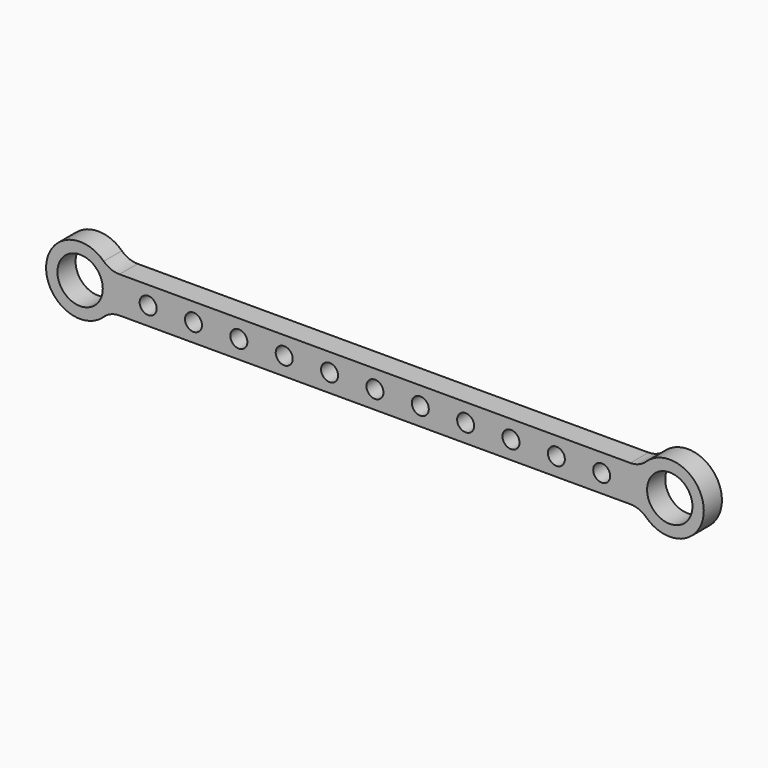
from build123d import *

# Parameters (mm, degrees)
F0_R     = 12.7
F1_DEPTH = 12.7
F2_D     = 9.525
F3_R     = 12.7


with BuildPart() as f1:
    # F0 (on Front) → F1 (new body)
    with BuildSketch(Plane.XZ):
        with BuildLine():
            Line((-314.085507, -10.16), (-16.114493, -10.16))
            ThreePointArc((-16.114493, -10.16), (19.05, 0), (-16.114493, 10.16))
            Line((-16.114493, 10.16), (-314.085507, 10.16))
            ThreePointArc((-314.085507, 10.16), (-349.25, 0), (-314.085507, -10.16))
        make_face()
        with Locations((-330.2, 0)):
            Circle(F0_R, mode=Mode.SUBTRACT)
        Circle(F0_R, mode=Mode.SUBTRACT)
    extrude(amount=F1_DEPTH)

    # F2 (through all)
    with Locations(Plane(origin=(0, 0, 0), x_dir=(1, 0, 0), z_dir=(0, 1, 0))):
        with Locations((-292.1, 0), (-266.7, 0), (-241.3, 0), (-215.9, 0), (-190.5, 0), (-165.1, 0), (-139.7, 0), (-114.3, 0), (-88.9, 0), (-63.5, 0), (-38.1, 0)):
            Hole(F2_D / 2)

    # F3
    f3_edges = [f1.edges().sort_by_distance(p)[0] for p in [
        (-314.085507, -6.35, -10.16),
        (-16.114493, -6.35, -10.16),
        (-16.114493, -6.35, 10.16),
        (-314.085507, -6.35, 10.16),
    ]]
    fillet(f3_edges, radius=F3_R)


solid = f1.part
